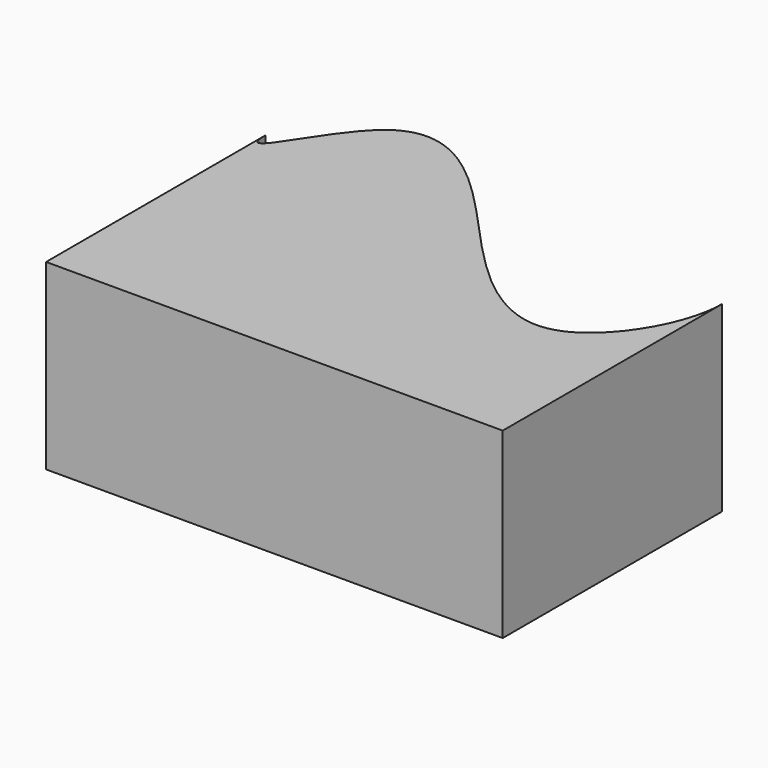
from build123d import *

# Parameters (mm, degrees)
F1_DEPTH = 20


with BuildPart() as f1:
    # F0 (on Top) → F1 (new body)
    with BuildSketch(Plane.XY):
        with BuildLine():
            add(Edge.make_bspline(
                [(-25, 25), (-25, 20), (-16.2982997865, 43.3053899209), (2.2074013798, 19.0075178259), (17.2325362127, 7.3699505786), (25, 20), (25, 25)],
                knots=[0, 0, 0, 0, 0.2033938021, 0.5040491732, 0.7591833701, 1, 1, 1, 1], degree=3))
            Line((-25, 25), (-25, -5))
            Line((-25, -5), (25, -5))
            Line((25, -5), (25, 25))
        make_face()
    extrude(amount=F1_DEPTH)


solid = f1.part
